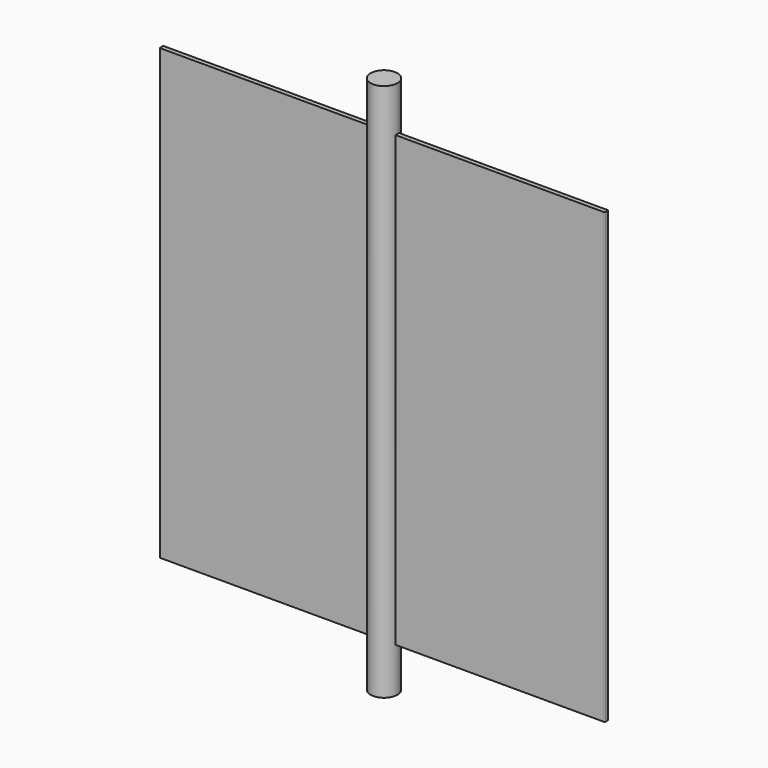
from build123d import *

# Parameters (mm, degrees)
F0_R     = 15
F1_DEPTH = 300
F3_DEPTH = 250


with BuildPart() as f1:
    # F0 (on Top) → F1 (new body, symmetric)
    with BuildSketch(Plane.XY):
        Circle(F0_R)
    extrude(amount=F1_DEPTH, both=True)

    # F2 (on Top) → F3 (join, symmetric)
    with BuildSketch(Plane.XY):
        with BuildLine():
            ThreePointArc((-248, -1.5), (-247.707107, -2.207107), (-247, -2.5))
            Line((-247, -2.5), (247, -2.5))
            ThreePointArc((247, -2.5), (247.707107, -2.207107), (248, -1.5))
            Line((248, -1.5), (248, 1.5))
            ThreePointArc((248, 1.5), (247.707107, 2.207107), (247, 2.5))
            Line((247, 2.5), (-247, 2.5))
            ThreePointArc((-247, 2.5), (-247.707107, 2.207107), (-248, 1.5))
            Line((-248, 1.5), (-248, -1.5))
        make_face()
    extrude(amount=F3_DEPTH, both=True)


solid = f1.part
